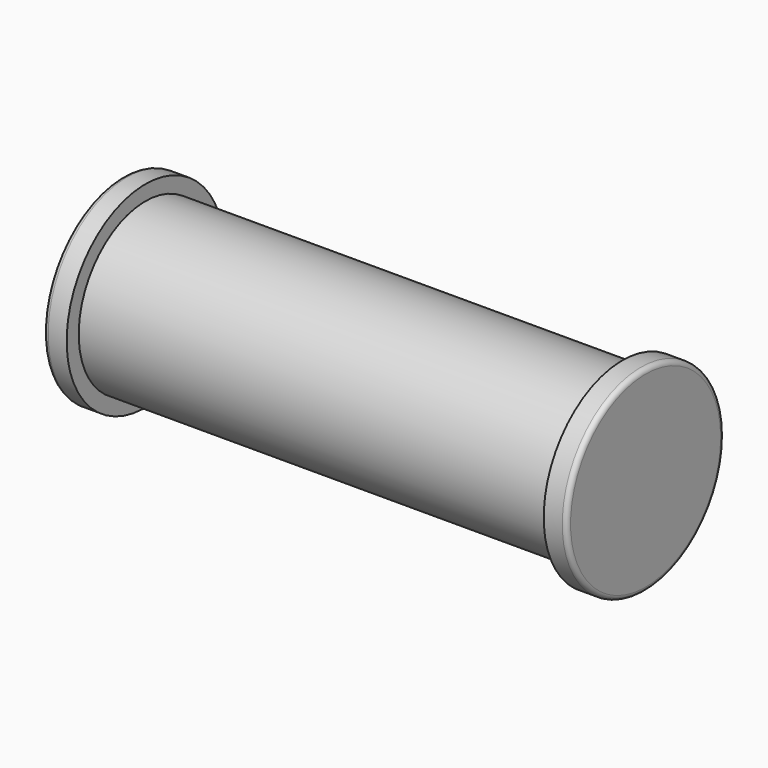
from build123d import *

# Parameters (mm, degrees)
F0_R     = 0.9144
F1_DEPTH = 2.6162
F2_R     = 1.0795
F3_DEPTH = 0.254
F4_R     = 0.0508


with BuildPart() as f1:
    # F0 (on Right) → F1 (new body)
    with BuildSketch(Plane.YZ):
        Circle(F0_R)
    extrude(amount=F1_DEPTH)

    # F2 (on face) → F3 (join)
    with BuildSketch(Plane.YZ.offset(2.6162)):
        Circle(F2_R)
    extrude(amount=F3_DEPTH)

    # F4
    f4_edges = [f1.edges().sort_by_distance(p)[0] for p in [
        (2.8702, -1.0795, 0),
    ]]
    fillet(f4_edges, radius=F4_R)

    # F5: F1 across face


with BuildPart() as f1_1:
    add(f1.part)
    add(f1.part.mirror(Plane(origin=(0, 0, 0), x_dir=(0, 1, 0), z_dir=(-1, 0, 0))))


solid = f1_1.part
